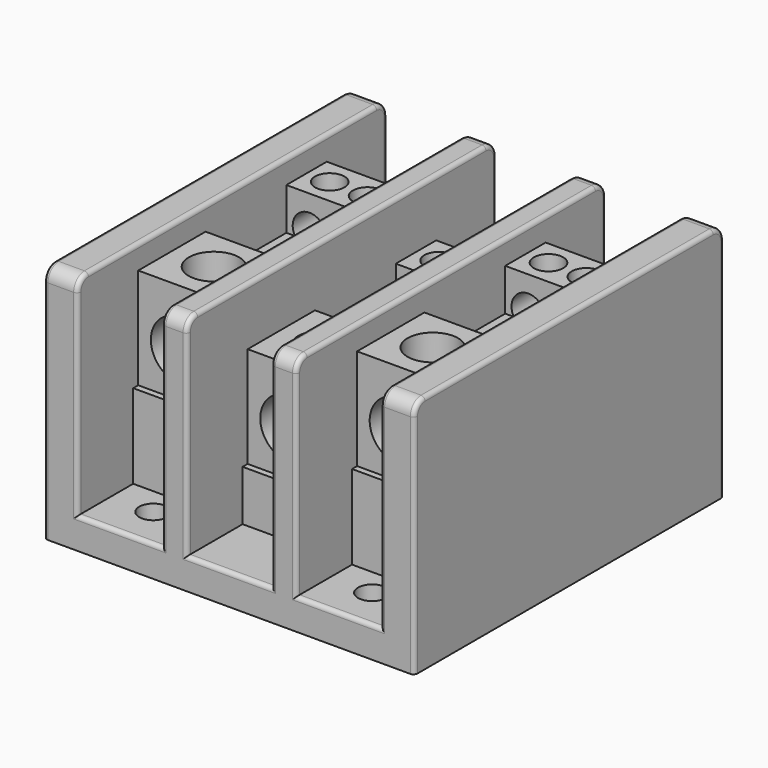
from build123d import *

# Parameters (mm, degrees)
F0_W      = 69.85
F0_H      = 73.025
F1_DEPTH  = 45.24375
F2_W      = 15.875
F2_H      = 73.025
F3_DEPTH  = 39.40175
F4_R      = 2.667
F5_DEPTH  = 5.842
F6_R      = 2.54
F7_R      = 0.762
F8_W      = 15.875
F8_H      = 46.83125
F9_DEPTH  = 15.875
F10_W     = 15.875
F10_H     = 46.83125
F11_DEPTH = 15.875
F12_W     = 15.875
F12_H     = 46.83125
F13_DEPTH = 9.525
F14_W     = 15.875
F14_H     = 44.45
F15_DEPTH = 19.05
F16_W     = 15.875
F16_H     = 44.45
F17_DEPTH = 19.05
F18_W     = 15.875
F18_H     = 44.45
F19_DEPTH = 19.05
F20_W     = 15.875
F20_H     = 19.05
F21_DEPTH = 7.9375
F22_R     = 2.778125
F23_DEPTH = 7.9375
F24_R     = 4.7625
F25_DEPTH = 14.2875
F26_R     = 2.778125
F27_DEPTH = 7.9375
F28_W     = 15.875
F28_H     = 19.05
F29_DEPTH = 7.9375
F30_W     = 15.875
F30_H     = 19.05
F31_DEPTH = 7.9375
F32_R     = 2.778125
F33_DEPTH = 7.9375
F34_R     = 2.778125
F35_DEPTH = 7.9375
F36_R     = 2.778125
F37_DEPTH = 7.9375
F38_R     = 2.778125
F39_DEPTH = 7.9375
F40_R     = 4.7625
F41_DEPTH = 14.2875
F42_R     = 4.7625
F43_DEPTH = 14.2875
F44_R     = 5.55625
F45_DEPTH = 15.875
F46_R     = 5.55625
F47_DEPTH = 15.875
F48_R     = 5.55625
F49_DEPTH = 15.875
F50_R     = 3.175
F51_DEPTH = 9.525
F52_R     = 3.175
F53_DEPTH = 9.525
F54_R     = 3.175
F55_DEPTH = 9.525


with BuildPart() as f1:
    # F0 (on Top) → F1 (new body)
    with BuildSketch(Plane.XY):
        Rectangle(F0_W, F0_H)
    extrude(amount=F1_DEPTH)

    # F2 (on face) → F3 (cut)
    with BuildSketch(Plane.XY.offset(45.24375)):
        with Locations((-20.6375, 0)):
            Rectangle(F2_W, F2_H)
        Rectangle(F2_W, F2_H)
        with Locations((20.6375, 0)):
            Rectangle(F2_W, F2_H)
    extrude(amount=-F3_DEPTH, mode=Mode.SUBTRACT)

    # F4 (on face) → F5 (cut)
    with BuildSketch(Plane.XY.offset(5.842)):
        with Locations((-20.6375, 28.575)):
            Circle(F4_R)
        with Locations((-20.6375, -28.575)):
            Circle(F4_R)
        with Locations((20.6375, 28.575)):
            Circle(F4_R)
        with Locations((20.6375, -28.575)):
            Circle(F4_R)
    extrude(amount=-F5_DEPTH, mode=Mode.SUBTRACT)

    # F6
    f6_edges = [f1.edges().sort_by_distance(p)[0] for p in [
        (-31.75, 36.5125, 45.24375),
        (-10.31875, 36.5125, 45.24375),
        (10.31875, 36.5125, 45.24375),
        (31.75, 36.5125, 45.24375),
        (-31.75, -36.5125, 45.24375),
        (-10.31875, -36.5125, 45.24375),
        (10.31875, -36.5125, 45.24375),
        (31.75, -36.5125, 45.24375),
    ]]
    fillet(f6_edges, radius=F6_R)

    # F7
    f7_edges = [f1.edges().sort_by_distance(p)[0] for p in [
        (-34.925, 36.5125, 21.351875),
        (-28.575, 36.5125, 24.272875),
        (-12.7, 36.5125, 24.272875),
        (-7.9375, 36.5125, 24.272875),
        (7.9375, 36.5125, 24.272875),
        (12.7, 36.5125, 24.272875),
        (28.575, 36.5125, 24.272875),
        (20.6375, 36.5125, 5.842),
        (0, 36.5125, 5.842),
        (-20.6375, 36.5125, 5.842),
        (-20.6375, -36.5125, 5.842),
        (0, -36.5125, 5.842),
        (20.6375, -36.5125, 5.842),
        (34.925, -36.5125, 21.351875),
    ]]
    fillet(f7_edges, radius=F7_R)

    # F8 (on face) → F9 (join)
    with BuildSketch(Plane.XY.offset(5.842)):
        with Locations((-20.6375, 0)):
            Rectangle(F8_W, F8_H)
    extrude(amount=F9_DEPTH)

    # F10 (on face) → F11 (join)
    with BuildSketch(Plane.XY.offset(5.842)):
        with Locations((20.6375, 0)):
            Rectangle(F10_W, F10_H)
    extrude(amount=F11_DEPTH)

    # F12 (on face) → F13 (join)
    with BuildSketch(Plane.XY.offset(5.842)):
        Rectangle(F12_W, F12_H)
    extrude(amount=F13_DEPTH)


with BuildPart() as f15:
    # F14 (on face) → F15 (new body)
    with BuildSketch(Plane.XY.offset(21.717)):
        with Locations((-20.6375, 0)):
            Rectangle(F14_W, F14_H)
    extrude(amount=F15_DEPTH)

    # F20 (on face) → F21 (cut)
    with BuildSketch(Plane.XY.offset(40.767)):
        with Locations((-20.6375, 3.175)):
            Rectangle(F20_W, F20_H)
    extrude(amount=-F21_DEPTH, mode=Mode.SUBTRACT)

    # F22 (on face) → F23 (cut)
    with BuildSketch(Plane.XY.offset(40.767)):
        with Locations((-24.209375, 17.4625)):
            Circle(F22_R)
        with Locations((-17.065625, 17.4625)):
            Circle(F22_R)
    extrude(amount=-F23_DEPTH, mode=Mode.SUBTRACT)

    # F24 (on face) → F25 (cut)
    with BuildSketch(Plane.XY.offset(40.767)):
        with Locations((-20.6375, -14.2875)):
            Circle(F24_R)
    extrude(amount=-F25_DEPTH, mode=Mode.SUBTRACT)

    # F26 (on face) → F27 (cut)
    with BuildSketch(Plane.XY.offset(32.8295)):
        with Locations((-24.209375, 7.9375)):
            Circle(F26_R)
        with Locations((-17.065625, 7.9375)):
            Circle(F26_R)
    extrude(amount=-F27_DEPTH, mode=Mode.SUBTRACT)

    # F44 (on face) → F45 (cut)
    with BuildSketch(Plane.XZ.offset(22.225)):
        with Locations((-20.6375, 30.051375)):
            Circle(F44_R)
    extrude(amount=-F45_DEPTH, mode=Mode.SUBTRACT)

    # F54 (on face) → F55 (cut)
    with BuildSketch(Plane(origin=(0, 22.225, 0), x_dir=(-1, 0, 0), z_dir=(0, 1, 0))):
        with Locations((17.065625, 34.417)):
            Circle(F54_R)
        with Locations((24.209375, 34.417)):
            Circle(F54_R)
        with Locations((17.065625, 27.27325)):
            Circle(F54_R)
        with Locations((24.209375, 27.27325)):
            Circle(F54_R)
    extrude(amount=-F55_DEPTH, mode=Mode.SUBTRACT)


with BuildPart() as f17:
    # F16 (on face) → F17 (new body)
    with BuildSketch(Plane.XY.offset(15.367)):
        Rectangle(F16_W, F16_H)
    extrude(amount=F17_DEPTH)

    # F28 (on face) → F29 (cut)
    with BuildSketch(Plane.XY.offset(34.417)):
        with Locations((0, 3.175)):
            Rectangle(F28_W, F28_H)
    extrude(amount=-F29_DEPTH, mode=Mode.SUBTRACT)

    # F32 (on face) → F33 (cut)
    with BuildSketch(Plane.XY.offset(34.417)):
        with Locations((-3.571875, 17.4625)):
            Circle(F32_R)
        with Locations((3.571875, 17.4625)):
            Circle(F32_R)
    extrude(amount=-F33_DEPTH, mode=Mode.SUBTRACT)

    # F34 (on face) → F35 (cut)
    with BuildSketch(Plane.XY.offset(26.4795)):
        with Locations((-3.571875, 7.9375)):
            Circle(F34_R)
        with Locations((3.571875, 7.9375)):
            Circle(F34_R)
    extrude(amount=-F35_DEPTH, mode=Mode.SUBTRACT)

    # F40 (on face) → F41 (cut)
    with BuildSketch(Plane.XY.offset(34.417)):
        with Locations((0, -14.2875)):
            Circle(F40_R)
    extrude(amount=-F41_DEPTH, mode=Mode.SUBTRACT)

    # F46 (on face) → F47 (cut)
    with BuildSketch(Plane.XZ.offset(22.225)):
        with Locations((0, 23.701375)):
            Circle(F46_R)
    extrude(amount=-F47_DEPTH, mode=Mode.SUBTRACT)

    # F52 (on face) → F53 (cut)
    with BuildSketch(Plane(origin=(0, 22.225, 0), x_dir=(-1, 0, 0), z_dir=(0, 1, 0))):
        with Locations((-3.571875, 28.067)):
            Circle(F52_R)
        with Locations((3.571875, 28.067)):
            Circle(F52_R)
        with Locations((-3.571875, 20.92325)):
            Circle(F52_R)
        with Locations((3.571875, 20.92325)):
            Circle(F52_R)
    extrude(amount=-F53_DEPTH, mode=Mode.SUBTRACT)


with BuildPart() as f19:
    # F18 (on face) → F19 (new body)
    with BuildSketch(Plane.XY.offset(21.717)):
        with Locations((20.6375, 0)):
            Rectangle(F18_W, F18_H)
    extrude(amount=F19_DEPTH)

    # F30 (on face) → F31 (cut)
    with BuildSketch(Plane.XY.offset(40.767)):
        with Locations((20.6375, 3.175)):
            Rectangle(F30_W, F30_H)
    extrude(amount=-F31_DEPTH, mode=Mode.SUBTRACT)

    # F36 (on face) → F37 (cut)
    with BuildSketch(Plane.XY.offset(40.767)):
        with Locations((17.065625, 17.4625)):
            Circle(F36_R)
        with Locations((24.209375, 17.4625)):
            Circle(F36_R)
    extrude(amount=-F37_DEPTH, mode=Mode.SUBTRACT)

    # F38 (on face) → F39 (cut)
    with BuildSketch(Plane.XY.offset(32.8295)):
        with Locations((17.065625, 7.9375)):
            Circle(F38_R)
        with Locations((24.209375, 7.9375)):
            Circle(F38_R)
    extrude(amount=-F39_DEPTH, mode=Mode.SUBTRACT)

    # F42 (on face) → F43 (cut)
    with BuildSketch(Plane.XY.offset(40.767)):
        with Locations((20.6375, -14.2875)):
            Circle(F42_R)
    extrude(amount=-F43_DEPTH, mode=Mode.SUBTRACT)

    # F48 (on face) → F49 (cut)
    with BuildSketch(Plane.XZ.offset(22.225)):
        with Locations((20.6375, 30.051375)):
            Circle(F48_R)
    extrude(amount=-F49_DEPTH, mode=Mode.SUBTRACT)

    # F50 (on face) → F51 (cut)
    with BuildSketch(Plane(origin=(0, 22.225, 0), x_dir=(-1, 0, 0), z_dir=(0, 1, 0))):
        with Locations((-24.209375, 34.417)):
            Circle(F50_R)
        with Locations((-17.065625, 34.417)):
            Circle(F50_R)
        with Locations((-24.209375, 27.27325)):
            Circle(F50_R)
        with Locations((-17.065625, 27.27325)):
            Circle(F50_R)
    extrude(amount=-F51_DEPTH, mode=Mode.SUBTRACT)


solid = Compound([f1.part, f15.part, f17.part, f19.part])
